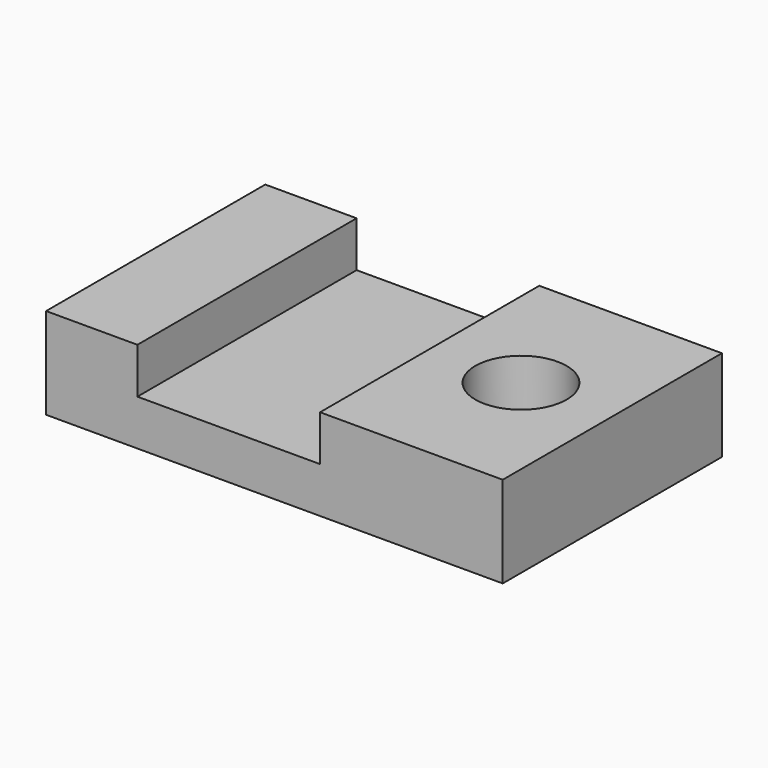
from build123d import *

# Parameters (mm, degrees)
F1_DEPTH = 76.2
F3_D     = 25.4


with BuildPart() as f1:
    # F0 (on Front) → F1 (new body)
    with BuildSketch(Plane.XZ):
        Polygon((-38.7165062598, 25.4), (-38.7165062598, 0), (88.2834937402, 0), (88.2834937402, 25.4), (37.4834937402, 25.4), (37.4834937402, 12.7), (-13.3165062598, 12.7), (-13.3165062598, 25.4), align=None)
    extrude(amount=-F1_DEPTH)

    # F3 (through all)
    with Locations(Plane(origin=(0, 0, 0), x_dir=(1, 0, 0), z_dir=(0, 0, -1))):
        with Locations((62.8834937402, -38.1)):
            Hole(F3_D / 2)


solid = f1.part
